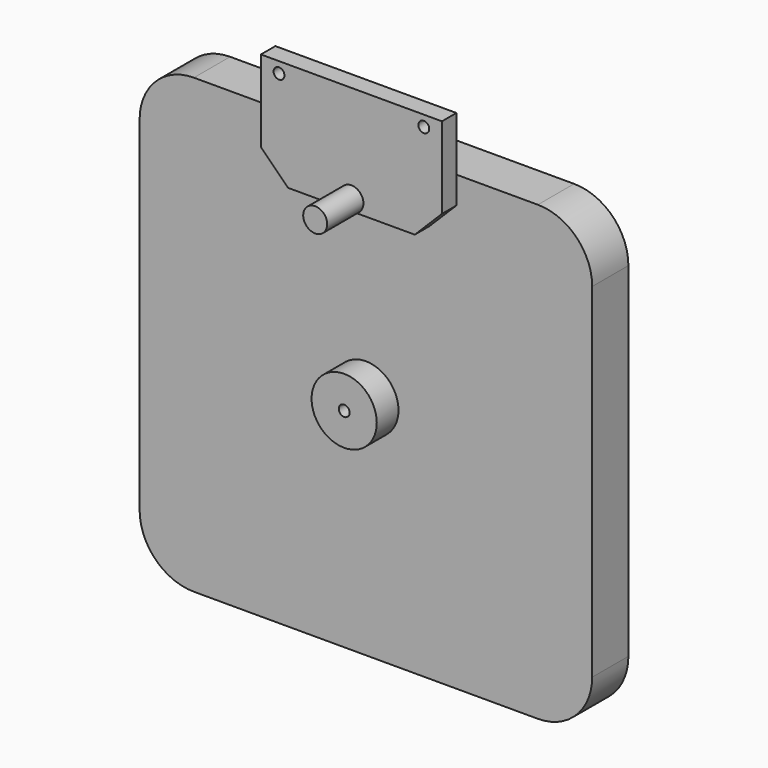
from build123d import *

# Parameters (mm, degrees)
F1_DEPTH   = 25
F2_R       = 18
F2_R_2     = 3
F3_DEPTH   = 15
F4_W       = 100
F4_H       = 30
F5_DEPTH   = 10
F6_R       = 3
F7_DEPTH   = 10
F8_SIZE    = 15
F9_R       = 3
F10_DEPTH  = 10
F9_R_2     = 6.6273474045
F10_FACE_R = 3
F11_DEPTH  = 25


with BuildPart() as f1:
    # F0 (on Front) → F1 (new body)
    with BuildSketch(Plane.XZ):
        with BuildLine():
            ThreePointArc((125, 95), (116.2132034356, 116.2132034356), (95, 125))
            Line((95, 125), (-95, 125))
            ThreePointArc((-95, 125), (-116.2132034356, 116.2132034356), (-125, 95))
            Line((-125, 95), (-125, -95))
            ThreePointArc((-125, -95), (-116.2132034356, -116.2132034356), (-95, -125))
            Line((-95, -125), (95, -125))
            ThreePointArc((95, -125), (116.2132034356, -116.2132034356), (125, -95))
            Line((125, -95), (125, 95))
        make_face()
    extrude(amount=-F1_DEPTH)


with BuildPart() as f3:
    # F2 (on face) → F3 (new body)
    with BuildSketch(Plane.XZ):
        Circle(F2_R)
        Circle(F2_R_2, mode=Mode.SUBTRACT)
    extrude(amount=F3_DEPTH)


with BuildPart() as f5:
    # F4 (on face) → F5 (new body)
    with BuildSketch(Plane.XZ):
        with Locations((0, 140)):
            Rectangle(F4_W, F4_H)
        with Locations((0, 110)):
            Rectangle(F4_W, F4_H)
    extrude(amount=F5_DEPTH)

    # F6 (on face) → F7 (cut, through all)
    with BuildSketch(Plane.XZ.offset(10)):
        with Locations((-40, 149)):
            Circle(F6_R)
        with BuildLine():
            ThreePointArc((3, 101), (2.1213203436, 103.1213203436), (0, 104))
            ThreePointArc((0, 104), (-2.1213203436, 98.8786796564), (3, 101))
        make_face()
        with BuildLine():
            ThreePointArc((43, 149), (40, 152), (37, 149))
            ThreePointArc((37, 149), (40, 146), (43, 149))
        make_face()
    extrude(amount=-F7_DEPTH, mode=Mode.SUBTRACT)

    # F8
    f8_edges = [f5.edges().sort_by_distance(p)[0] for p in [
        (50, -5, 95),
        (-50, -5, 95),
    ]]
    chamfer(f8_edges, length=F8_SIZE)


with BuildPart() as f10:
    # F9 (on face) → F10 (new body)
    with BuildSketch(Plane.XZ.offset(10)):
        with Locations((0, 101)):
            Circle(F9_R)
    extrude(amount=-F10_DEPTH)


with BuildPart() as f11:
    # F9 (on face) + F10_face (on face) → F11 (new body)
    with BuildSketch(Plane.XZ.offset(10)):
        with Locations((0, 101)):
            Circle(F9_R_2)
        with Locations((0, 101)):
            Circle(F9_R, mode=Mode.SUBTRACT)
    with BuildSketch(Plane(origin=(0, -10, 101), x_dir=(1, 0, 0), z_dir=(0, -1, 0))):
        Circle(F10_FACE_R)
    extrude(amount=F11_DEPTH)


with BuildPart() as f10_1:
    add(f10.part)

    # F12: union F11
    add(f11.part)


solid = Compound([f1.part, f3.part, f5.part, f10_1.part])
